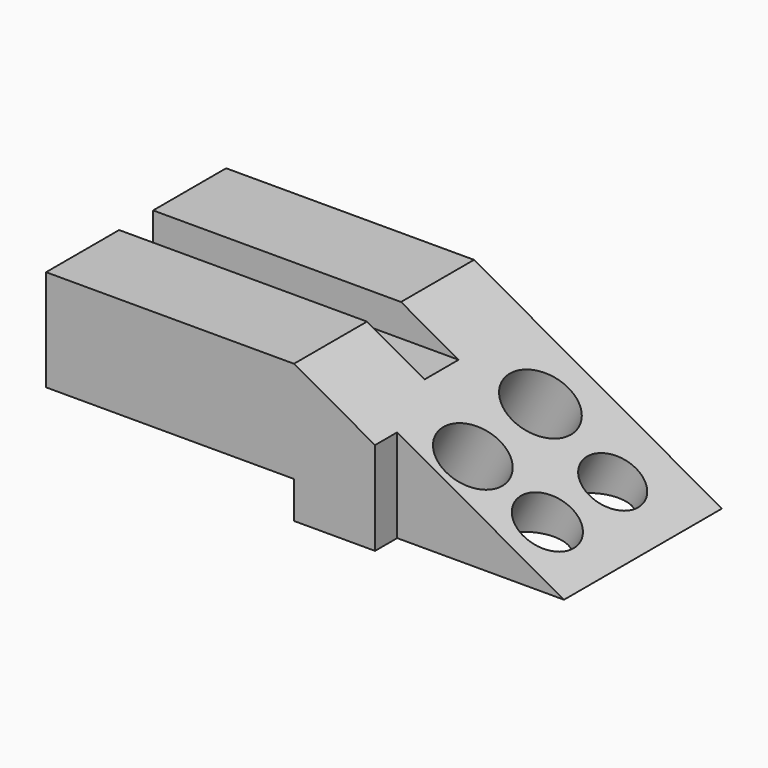
from build123d import *

# Parameters (mm, degrees)
F0_W      = 90.986096
F0_H      = 41.3048
F1_DEPTH  = 25.4
F3_DEPTH  = 50.8
F4_W      = 7.798808
F4_H      = 5.902978
F5_DEPTH  = 101.6
F6_R      = 6.182282
F6_R_2    = 6.41324
F6_R_3    = 5.352968
F6_R_4    = 5.515412
F7_DEPTH  = 44.355903
F9_DEPTH  = 5.08
F10_W     = 45.493048
F10_H     = 6.787852
F11_DEPTH = 41.305801


with BuildPart() as f1:
    # F0 (on Top) → F1 (new body)
    with BuildSketch(Plane.XY):
        Rectangle(F0_W, F0_H)
    extrude(amount=F1_DEPTH)

    # F2 (on face) → F3 (cut)
    with BuildSketch(Plane.XZ.offset(20.6524)):
        Polygon((45.493048, 25.4), (0, 25.4), (45.493048, 0), align=None)
    extrude(amount=-F3_DEPTH, mode=Mode.SUBTRACT)

    # F4 (on face) → F5 (cut)
    with BuildSketch(Plane(origin=(-45.493048, 0, 0), x_dir=(0, -1, 0), z_dir=(-1, 0, 0))):
        with Locations((-1e-06, 22.448511)):
            Rectangle(F4_W, F4_H)
    extrude(amount=-F5_DEPTH, mode=Mode.SUBTRACT)

    # F6 (on face) → F7 (cut, through all)
    with BuildSketch(Plane(origin=(10.811308, 0, 19.363754), x_dir=(0.873128, 0, -0.487491), z_dir=(0.487491, 0, 0.873128))):
        with Locations((13.669491, -8.054403)):
            Circle(F6_R)
        with Locations((11.890859, 9.394533)):
            Circle(F6_R_2)
        with Locations((27.786525, 8.624507)):
            Circle(F6_R_3)
        with Locations((28.105455, -6.714204)):
            Circle(F6_R_4)
    extrude(amount=-F7_DEPTH, mode=Mode.SUBTRACT)

    # F8 (on face) → F9 (cut)
    with BuildSketch(Plane.XZ.offset(20.6524)):
        Polygon((14.875505, 17.094603), (14.875505, 0), (45.493048, 0), align=None)
    extrude(amount=-F9_DEPTH, mode=Mode.SUBTRACT)

    # F10 (on face) → F11 (cut, through all)
    with BuildSketch(Plane.XZ.offset(20.6524)):
        with Locations((-22.746524, 3.393926)):
            Rectangle(F10_W, F10_H)
    extrude(amount=-F11_DEPTH, mode=Mode.SUBTRACT)


solid = f1.part
